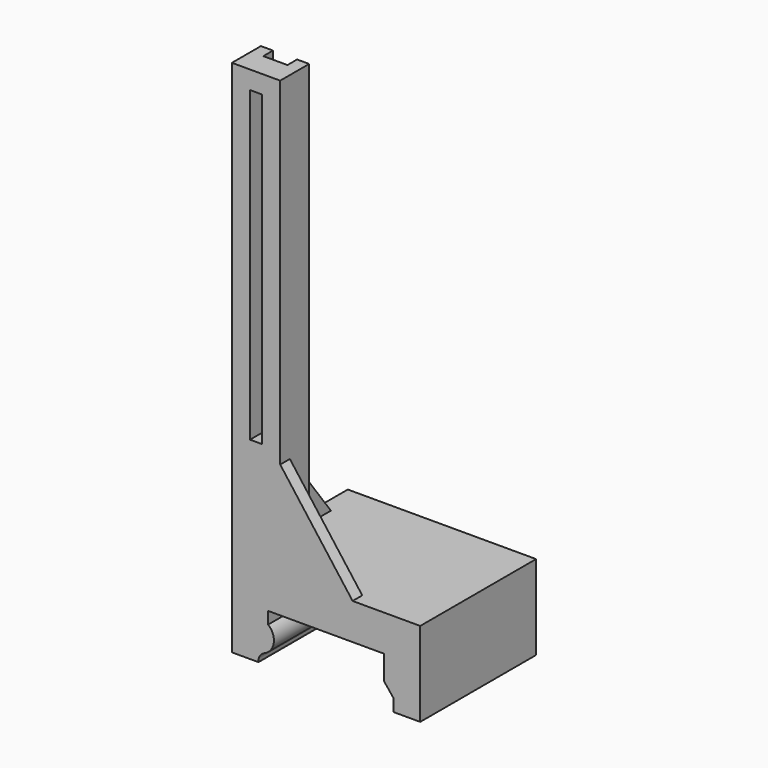
from build123d import *

# Parameters (mm, degrees)
F1_DEPTH  = 38.1
F2_W      = 71.12
F2_H      = 27.3908400369
F3_DEPTH  = 50.8
F4_W      = 25.4
F4_H      = 19.05
F5_DEPTH  = 228.6
F7_DEPTH  = 6.35
F8_W      = 12.7
F8_H      = 165.1
F9_DEPTH  = 6.35
F10_W     = 6.35
F10_H     = 161.925
F11_DEPTH = 127
F13_DEPTH = 6.35
F14_W     = 12.7
F14_H     = 15.3125979424
F15_DEPTH = 6.35
F16_R     = 8.1334843178
F17_DEPTH = 76.2
F18_R     = 5.08
F20_DEPTH = 76.2


with BuildPart() as f1:
    # F0 (on Front) → F1 (new body, symmetric)
    with BuildSketch(Plane.XZ):
        Polygon((30.48, -22.225), (49.53, -22.225), (49.53, 22.225), (-49.53, 22.225), (-49.53, -22.225), (-30.48, -22.225), (-30.48, 3.175), (30.48, 3.175), align=None)
    extrude(amount=F1_DEPTH, both=True)

    # F2 (on Front) → F3 (cut, symmetric)
    with BuildSketch(Plane.XZ):
        with Locations((0, -23.2204200185)):
            Rectangle(F2_W, F2_H)
    extrude(amount=F3_DEPTH, both=True, mode=Mode.SUBTRACT)

    # F4 (on face) → F5 (join)
    with BuildSketch(Plane.XY.offset(22.225)):
        with Locations((-36.83, -28.575)):
            Rectangle(F4_W, F4_H)
    extrude(amount=F5_DEPTH)

    # F6 (on face) → F7 (join)
    with BuildSketch(Plane.XZ.offset(38.1)):
        Polygon((-24.13, 73.025), (-24.13, 22.225), (13.97, 22.225), align=None)
    extrude(amount=-F7_DEPTH)

    # F8 (on face) → F9 (cut)
    with BuildSketch(Plane(origin=(0, -19.05, 0), x_dir=(-1, 0, 0), z_dir=(0, 1, 0))):
        with Locations((36.83, 161.925)):
            Rectangle(F8_W, F8_H)
    extrude(amount=-F9_DEPTH, mode=Mode.SUBTRACT)

    # F10 (on Front) → F11 (cut)
    with BuildSketch(Plane.XZ):
        with Locations((-36.83, 160.3375)):
            Rectangle(F10_W, F10_H)
    extrude(amount=F11_DEPTH, mode=Mode.SUBTRACT)

    # F12 (on face) → F13 (join)
    with BuildSketch(Plane(origin=(-49.53, 0, 0), x_dir=(0, -1, 0), z_dir=(-1, 0, 0))):
        Polygon((-19.05, 22.225), (19.05, 22.225), (19.05, 73.025), align=None)
    extrude(amount=-F13_DEPTH)

    # F14 (on face) → F15 (cut)
    with BuildSketch(Plane(origin=(0, -19.05, 0), x_dir=(-1, 0, 0), z_dir=(0, 1, 0))):
        with Locations((36.83, 244.475)):
            Rectangle(F14_W, F14_H)
    extrude(amount=-F15_DEPTH, mode=Mode.SUBTRACT)

    # F16 (on face) → F17 (join)
    with BuildSketch(Plane.XZ.offset(38.1)):
        with Locations((-35.56, -9.525)):
            Circle(F16_R)
    extrude(amount=-F17_DEPTH)

    # F18
    f18_edges = [f1.edges().sort_by_distance(p)[0] for p in [
        (-35.56, 0, -17.658484),
    ]]
    fillet(f18_edges, radius=F18_R)

    # F19 (on face) → F20 (join)
    with BuildSketch(Plane.XZ.offset(38.1)):
        Polygon((35.56, -9.525), (30.48, -9.525), (35.56, -15.875), align=None)
    extrude(amount=-F20_DEPTH)


solid = f1.part
